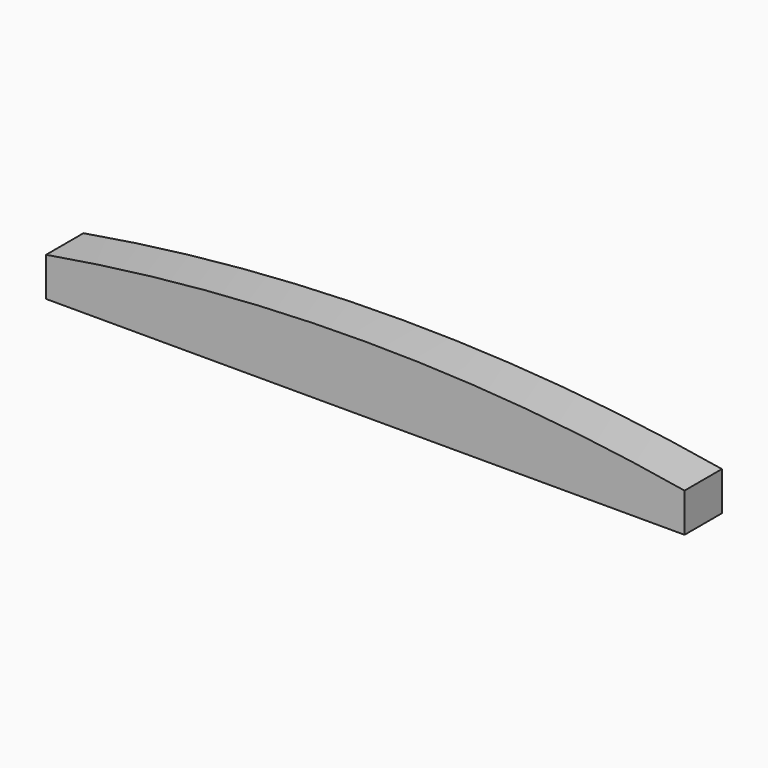
from build123d import *

# Parameters (mm, degrees)
PAD_DEPTH = 3


with BuildPart() as part:
    # Sketch → Pad (new body)
    with BuildSketch(Plane.XZ):
        with BuildLine():
            Line((0, 2.5), (0, 0))
            Line((0, 0), (41, 0))
            Line((41, 0), (41, 2.5))
            ThreePointArc((41, 2.5), (20.5, 4.256579), (0, 2.5))
        make_face()
    extrude(amount=PAD_DEPTH)


solid = part.part
